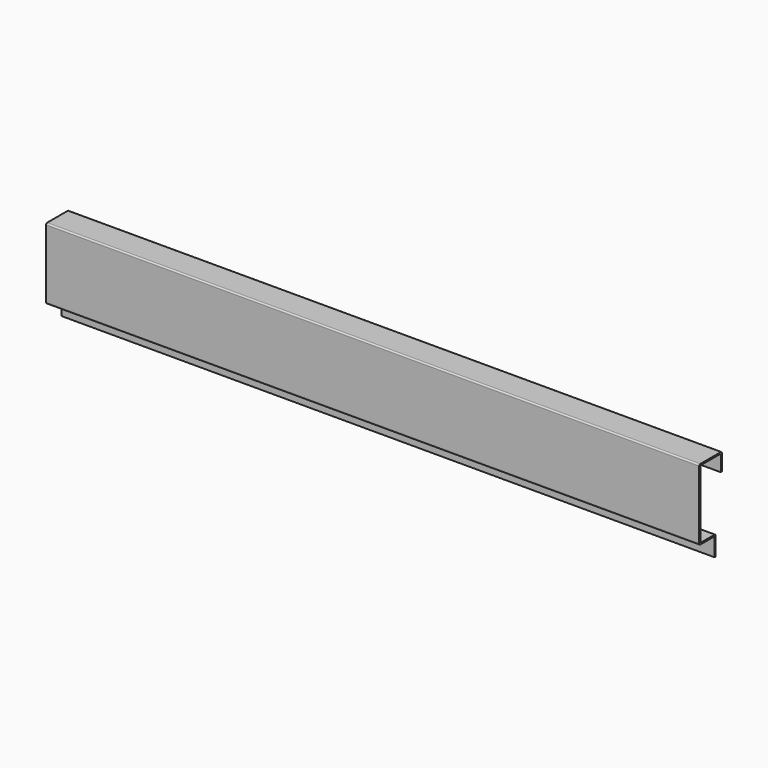
from build123d import *

# Parameters (mm, degrees)
F3_R = 2


with BuildPart() as f2:
    # F2: sweep along a path in F1
    with BuildLine(Plane.XY) as f2_path:
        Line((0, 0), (920, 0))
    # F0 (on Right) → F2 (sweep)
    with BuildSketch(Plane.YZ):
        Polygon((38, -2), (38, -25), (40, -25), (40, 0), (0, 0), (0, -100), (27, -100), (27, -126), (29, -126), (29, -98), (2, -98), (2, -2), align=None)
    sweep(path=f2_path.line)

    # F3
    f3_edges = [f2.edges().sort_by_distance(p)[0] for p in [
        (460, 40, 0),
        (460, 0, 0),
        (460, 29, -98),
        (460, 2, -98),
        (460, 2, -2),
        (460, 38, -2),
        (460, 0, -100),
        (460, 27, -100),
    ]]
    fillet(f3_edges, radius=F3_R)


solid = f2.part
